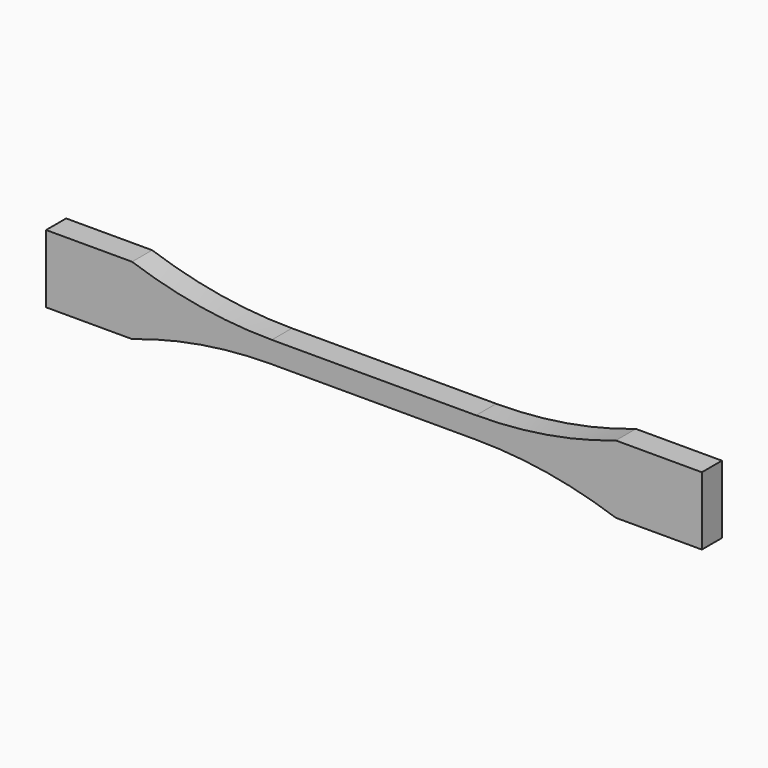
from build123d import *

# Parameters (mm, degrees)
F1_DEPTH = 7


with BuildPart() as f1:
    # F0 (on Front) → F1 (new body)
    with BuildSketch(Plane.XZ):
        with BuildLine():
            Line((28.5, 3), (0, 3))
            Line((0, 3), (-28.5, 3))
            ThreePointArc((-28.5, 3), (-48.268978, 4.636131), (-67.5, 9.5))
            Line((-67.5, 9.5), (-91.5, 9.5))
            Line((-91.5, 9.5), (-91.5, 0))
            Line((-91.5, 0), (-91.5, -9.5))
            Line((-91.5, -9.5), (-67.5, -9.5))
            ThreePointArc((-67.5, -9.5), (-48.268978, -4.636131), (-28.5, -3))
            Line((-28.5, -3), (0, -3))
            Line((0, -3), (28.5, -3))
            ThreePointArc((28.5, -3), (48.268978, -4.636131), (67.5, -9.5))
            Line((67.5, -9.5), (91.5, -9.5))
            Line((91.5, -9.5), (91.5, 0))
            Line((91.5, 0), (91.5, 9.5))
            Line((91.5, 9.5), (67.5, 9.5))
            ThreePointArc((67.5, 9.5), (48.268978, 4.636131), (28.5, 3))
        make_face()
    extrude(amount=F1_DEPTH)


solid = f1.part
